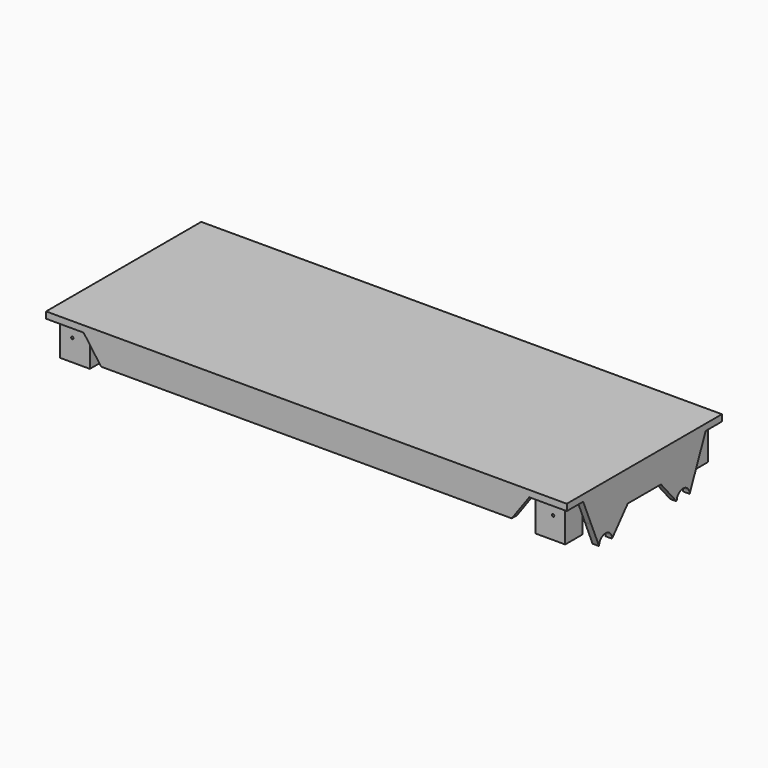
from build123d import *

# Parameters (mm, degrees)
F0_W      = 192.8
F0_H      = 71.8
F0_W_2    = 188
F0_H_2    = 67
F1_DEPTH  = 35
F2_R      = 3
F3_DEPTH  = 192.801
F4_R      = 3.9
F5_DEPTH  = 25
F6_R      = 3
F7_DEPTH  = 25
F8_W      = 192.8
F8_H      = 71.8
F8_W_2    = 188
F8_H_2    = 67
F11_DEPTH = 2.4
F12_DEPTH = 71.801
F13_DEPTH = 5
F14_START = -183.4
F14_DEPTH = 21.3
F15_W     = 11
F15_H     = 4.6784730554
F15_H_2   = 4.6253820807
F15_H_3   = 3.3215269446
F15_H_4   = 3.3746179193
F16_DEPTH = 13
F17_DEPTH = 25
F18_R     = 0.45
F19_DEPTH = 68.901


with BuildPart() as f1:
    # F0 (on Top) → F1 (new body)
    with BuildSketch(Plane.XY):
        Rectangle(F0_W, F0_H)
        Rectangle(F0_W_2, F0_H_2, mode=Mode.SUBTRACT)
    extrude(amount=F1_DEPTH)

    # F2 (on face) → F3 (cut, through all)
    with BuildSketch(Plane(origin=(-96.4, 0, 0), x_dir=(0, -1, 0), z_dir=(-1, 0, 0))):
        with Locations((-17.95, 17.5)):
            Circle(F2_R)
        with Locations((17.95, 17.5)):
            Circle(F2_R)
    extrude(amount=-F3_DEPTH, mode=Mode.SUBTRACT)

    # F4 (on face) → F5 (cut)
    with BuildSketch(Plane.XZ.offset(35.9)):
        with Locations((0, 17.5)):
            Circle(F4_R)
        with Locations((33, 17.5)):
            Circle(F4_R)
        with Locations((66, 17.5)):
            Circle(F4_R)
        with Locations((-33, 17.5)):
            Circle(F4_R)
        with Locations((-66, 17.5)):
            Circle(F4_R)
    extrude(amount=-F5_DEPTH, mode=Mode.SUBTRACT)

    # F6 (on face) → F7 (cut)
    with BuildSketch(Plane(origin=(0, 35.9, 0), x_dir=(-1, 0, 0), z_dir=(0, 1, 0))):
        with Locations((0, 17.5)):
            Circle(F6_R)
        with Locations((33, 17.5)):
            Circle(F6_R)
        with Locations((66, 17.5)):
            Circle(F6_R)
        with Locations((-33, 17.5)):
            Circle(F6_R)
        with Locations((-66, 17.5)):
            Circle(F6_R)
    extrude(amount=-F7_DEPTH, mode=Mode.SUBTRACT)

    # F8 (on face) → F11 (join)
    with BuildSketch(Plane.XY.offset(35)):
        Rectangle(F8_W, F8_H)
        Rectangle(F8_W_2, F8_H_2, mode=Mode.SUBTRACT)
        Rectangle(F8_W_2, F8_H_2)
    extrude(amount=F11_DEPTH)

    # F10 (on face) → F12 (cut, through all)
    with BuildSketch(Plane.XZ.offset(35.9)):
        with BuildLine():
            Line((-69.9, 17.5), (-76.02, 26))
            Line((-76.02, 26), (-94, 26))
            Line((-94, 26), (-94, 0))
            Line((-94, 0), (94, 0))
            Line((94, 0), (94, 26))
            Line((94, 26), (76.02, 26))
            Line((76.02, 26), (69.9, 17.5))
            ThreePointArc((69.9, 17.5), (66, 13.6), (62.1, 17.5))
            Line((62.1, 17.5), (55.98, 26))
            Line((55.98, 26), (43.02, 26))
            Line((43.02, 26), (36.9, 17.5))
            ThreePointArc((36.9, 17.5), (33, 13.6), (29.1, 17.5))
            Line((29.1, 17.5), (22.98, 26))
            Line((22.98, 26), (10.02, 26))
            Line((10.02, 26), (3.9, 17.5))
            ThreePointArc((3.9, 17.5), (0, 13.6), (-3.9, 17.5))
            Line((-3.9, 17.5), (-10.02, 26))
            Line((-10.02, 26), (-22.98, 26))
            Line((-22.98, 26), (-29.1, 17.5))
            ThreePointArc((-29.1, 17.5), (-33, 13.6), (-36.9, 17.5))
            Line((-36.9, 17.5), (-43.02, 26))
            Line((-43.02, 26), (-55.98, 26))
            Line((-55.98, 26), (-62.1, 17.5))
            ThreePointArc((-62.1, 17.5), (-66, 13.6), (-69.9, 17.5))
        make_face()
        Polygon((-76.02, 26), (-82.5, 35), (-94, 35), (-94, 26), align=None)
        Polygon((76.02, 26), (94, 26), (94, 35), (82.5, 35), align=None)
        with BuildLine():
            Line((-62.1, 17.5), (-69.9, 17.5))
            ThreePointArc((-69.9, 17.5), (-66, 13.6), (-62.1, 17.5))
        make_face()
        with BuildLine():
            Line((-29.1, 17.5), (-36.9, 17.5))
            ThreePointArc((-36.9, 17.5), (-33, 13.6), (-29.1, 17.5))
        make_face()
        with BuildLine():
            Line((3.9, 17.5), (-3.9, 17.5))
            ThreePointArc((-3.9, 17.5), (0, 13.6), (3.9, 17.5))
        make_face()
        with BuildLine():
            Line((36.9, 17.5), (29.1, 17.5))
            ThreePointArc((29.1, 17.5), (33, 13.6), (36.9, 17.5))
        make_face()
        with BuildLine():
            Line((69.9, 17.5), (62.1, 17.5))
            ThreePointArc((62.1, 17.5), (66, 13.6), (69.9, 17.5))
        make_face()
    extrude(amount=-F12_DEPTH, mode=Mode.SUBTRACT)

    # F9 (on face) → F13 (cut)
    with BuildSketch(Plane(origin=(-96.4, 0, 0), x_dir=(0, -1, 0), z_dir=(-1, 0, 0))):
        with BuildLine():
            Line((-20.95, 17.5), (-24.5562429894, 26))
            Line((-24.5562429894, 26), (-35.9, 26))
            Line((-35.9, 26), (-35.9, 0))
            Line((-35.9, 0), (35.9, 0))
            Line((35.9, 0), (35.9, 26))
            Line((35.9, 26), (24.5304559445, 26))
            Line((24.5304559445, 26), (20.95, 17.5))
            ThreePointArc((20.95, 17.5), (17.95, 14.5), (14.95, 17.5))
            Line((14.95, 17.5), (7.6885714286, 26))
            Line((7.6885714286, 26), (-7.6885714286, 26))
            Line((-7.6885714286, 26), (-14.95, 17.5))
            ThreePointArc((-14.95, 17.5), (-17.95, 14.5), (-20.95, 17.5))
        make_face()
        Polygon((-24.5562429894, 26), (-28.3746179193, 35), (-35.9, 35), (-35.9, 26), align=None)
        Polygon((35.9, 35), (28.3215269446, 35), (24.5304559445, 26), (35.9, 26), align=None)
    extrude(amount=-F13_DEPTH, mode=Mode.SUBTRACT)

    # F9 (on face) → F14 (cut)
    with BuildSketch(Plane(origin=(-96.4, 0, 0), x_dir=(0, -1, 0), z_dir=(-1, 0, 0)).offset(F14_START)):
        Polygon((-24.5562429894, 26), (-28.3746179193, 35), (-35.9, 35), (-35.9, 26), align=None)
        Polygon((35.9, 35), (28.3215269446, 35), (24.5304559445, 26), (35.9, 26), align=None)
        with BuildLine():
            Line((-20.95, 17.5), (-24.5562429894, 26))
            Line((-24.5562429894, 26), (-35.9, 26))
            Line((-35.9, 26), (-35.9, 0))
            Line((-35.9, 0), (35.9, 0))
            Line((35.9, 0), (35.9, 26))
            Line((35.9, 26), (24.5304559445, 26))
            Line((24.5304559445, 26), (20.95, 17.5))
            ThreePointArc((20.95, 17.5), (17.95, 14.5), (14.95, 17.5))
            Line((14.95, 17.5), (7.6885714286, 26))
            Line((7.6885714286, 26), (-7.6885714286, 26))
            Line((-7.6885714286, 26), (-14.95, 17.5))
            ThreePointArc((-14.95, 17.5), (-17.95, 14.5), (-20.95, 17.5))
        make_face()
    extrude(amount=-F14_DEPTH, mode=Mode.SUBTRACT)

    # F15 (on face) → F16 (join)
    with BuildSketch(Plane(origin=(0, 0, 35), x_dir=(1, 0, 0), z_dir=(0, 0, -1))):
        with Locations((-88, 30.6607634723)):
            Rectangle(F15_W, F15_H)
        with Locations((-88, -30.6873089597)):
            Rectangle(F15_W, F15_H_2)
        with Locations((88, -30.6873089597)):
            Rectangle(F15_W, F15_H_2)
        with Locations((88, 30.6607634723)):
            Rectangle(F15_W, F15_H)
        with Locations((88, 26.6607634723)):
            Rectangle(F15_W, F15_H_3)
        with Locations((88, -30.6873089597)):
            Rectangle(F15_W, F15_H_2)
        with Locations((88, -26.6873089597)):
            Rectangle(F15_W, F15_H_4)
        with Locations((-88, -30.6873089597)):
            Rectangle(F15_W, F15_H_2)
        with Locations((-88, -26.6873089597)):
            Rectangle(F15_W, F15_H_4)
        with Locations((-88, 26.6607634723)):
            Rectangle(F15_W, F15_H_3)
        with Locations((-88, 30.6607634723)):
            Rectangle(F15_W, F15_H)
    extrude(amount=F16_DEPTH)

    # F10 (on face) → F17 (cut)
    with BuildSketch(Plane.XZ.offset(35.9)):
        with BuildLine():
            Line((-55.98, 26), (-76.02, 26))
            Line((-76.02, 26), (-69.9, 17.5))
            ThreePointArc((-69.9, 17.5), (-66, 21.4), (-62.1, 17.5))
            Line((-62.1, 17.5), (-55.98, 26))
        make_face()
        with BuildLine():
            Line((-22.98, 26), (-43.02, 26))
            Line((-43.02, 26), (-36.9, 17.5))
            ThreePointArc((-36.9, 17.5), (-33, 21.4), (-29.1, 17.5))
            Line((-29.1, 17.5), (-22.98, 26))
        make_face()
        with BuildLine():
            Line((10.02, 26), (-10.02, 26))
            Line((-10.02, 26), (-3.9, 17.5))
            ThreePointArc((-3.9, 17.5), (0, 21.4), (3.9, 17.5))
            Line((3.9, 17.5), (10.02, 26))
        make_face()
        with BuildLine():
            Line((43.02, 26), (22.98, 26))
            Line((22.98, 26), (29.1, 17.5))
            ThreePointArc((29.1, 17.5), (33, 21.4), (36.9, 17.5))
            Line((36.9, 17.5), (43.02, 26))
        make_face()
        with BuildLine():
            Line((76.02, 26), (55.98, 26))
            Line((55.98, 26), (62.1, 17.5))
            ThreePointArc((62.1, 17.5), (66, 21.4), (69.9, 17.5))
            Line((69.9, 17.5), (76.02, 26))
        make_face()
    extrude(amount=-F17_DEPTH, mode=Mode.SUBTRACT)

    # F18 (on face) → F19 (cut, through all)
    with BuildSketch(Plane(origin=(0, 33, 0), x_dir=(-1, 0, 0), z_dir=(0, 1, 0))):
        with Locations((-89, 30)):
            Circle(F18_R)
        with Locations((89, 30)):
            Circle(F18_R)
    extrude(amount=-F19_DEPTH, mode=Mode.SUBTRACT)


solid = f1.part
